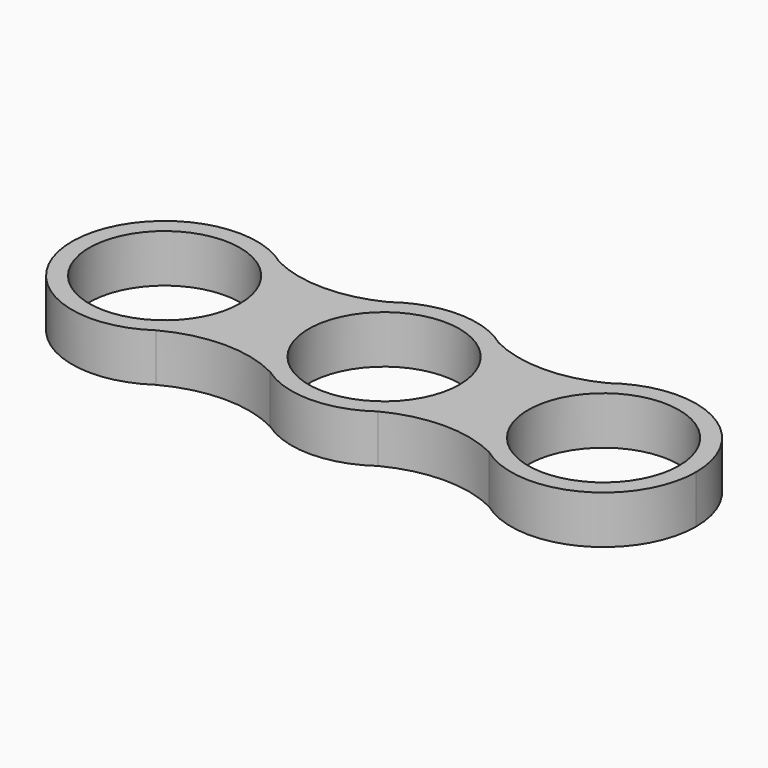
from build123d import *

# Parameters (mm, degrees)
F0_R     = 11
F1_DEPTH = 7


with BuildPart() as f1:
    # F0 (on Top) → F1 (new body)
    with BuildSketch(Plane.XY):
        with BuildLine():
            ThreePointArc((-24.363253, -11.132389), (-20.055418, -6.291022), (-18.5, 0))
            ThreePointArc((-18.5, 0), (-19.935078, 6.057035), (-23.93521, 10.826318))
            ThreePointArc((-23.93521, 10.826318), (-45.497436, 0.263106), (-24.363253, -11.132389))
        make_face()
        with Locations((-32, 0)):
            Circle(F0_R, mode=Mode.SUBTRACT)
        with BuildLine():
            ThreePointArc((-23.93521, 10.826318), (-19.935078, 6.057035), (-18.5, 0))
            ThreePointArc((-18.5, 0), (-20.055418, -6.291022), (-24.363253, -11.132389))
            ThreePointArc((-24.363253, -11.132389), (-16.075993, -9.03197), (-7.766423, -11.042313))
            ThreePointArc((-7.766423, -11.042313), (-13.498744, -0.184171), (-8.06479, 10.826318))
            ThreePointArc((-8.06479, 10.826318), (-16, 8.957347), (-23.93521, 10.826318))
        make_face()
        with BuildLine():
            ThreePointArc((8.06479, 10.826318), (0, 13.5), (-8.06479, 10.826318))
            ThreePointArc((-8.06479, 10.826318), (-13.498744, -0.184171), (-7.766423, -11.042313))
            ThreePointArc((-7.766423, -11.042313), (0.073268, -13.499801), (7.885822, -10.957363))
            ThreePointArc((7.885822, -10.957363), (12.014753, -6.155948), (13.5, 0))
            ThreePointArc((13.5, 0), (12.064922, 6.057035), (8.06479, 10.826318))
        make_face()
        Circle(F0_R, mode=Mode.SUBTRACT)
        with BuildLine():
            ThreePointArc((23.93521, 10.826318), (16, 8.957347), (8.06479, 10.826318))
            ThreePointArc((8.06479, 10.826318), (12.064922, 6.057035), (13.5, 0))
            ThreePointArc((13.5, 0), (12.014753, -6.155948), (7.885822, -10.957363))
            ThreePointArc((7.885822, -10.957363), (15.929492, -8.984778), (23.994099, -10.869938))
            ThreePointArc((23.994099, -10.869938), (18.50005, -0.036642), (23.93521, 10.826318))
        make_face()
        with BuildLine():
            ThreePointArc((45.5, 0), (38.057035, 12.064922), (23.93521, 10.826318))
            ThreePointArc((23.93521, 10.826318), (18.50005, -0.036642), (23.994099, -10.869938))
            ThreePointArc((23.994099, -10.869938), (38.08976, -12.048437), (45.5, 0))
        make_face()
        with Locations((32, 0)):
            Circle(F0_R, mode=Mode.SUBTRACT)
    extrude(amount=F1_DEPTH)


solid = f1.part
